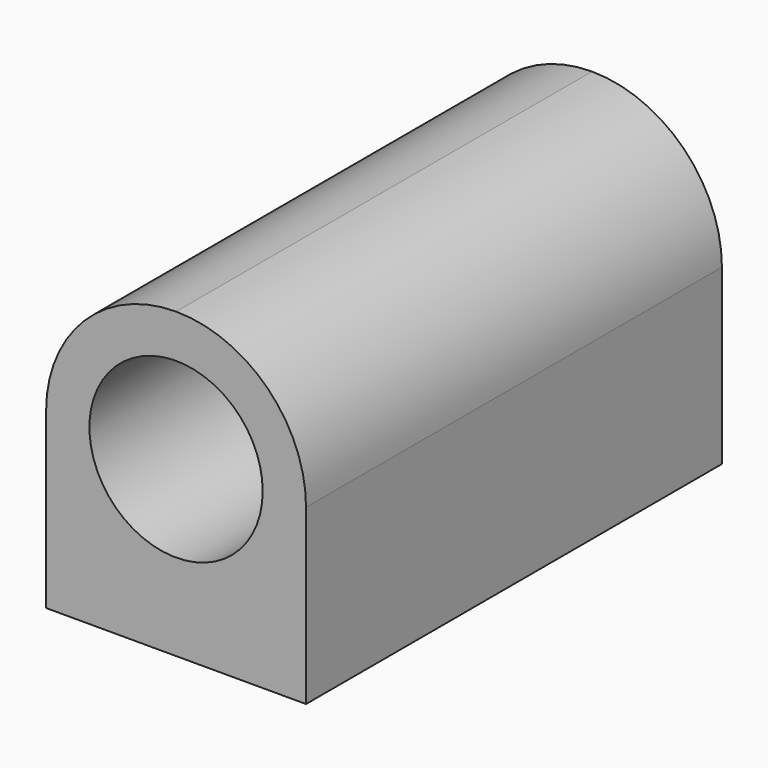
from build123d import *

# Parameters (mm, degrees)
F0_R     = 0.5
F1_DEPTH = 1.5
F2_R     = 0.065
F3_DEPTH = 0.5


with BuildPart() as f1:
    # F0 (on Front) → F1 (new body, symmetric)
    with BuildSketch(Plane.XZ):
        with BuildLine():
            Line((-0.75, 0), (0, 0))
            Line((0, 0), (0.75, 0))
            Line((0.75, 0), (0.75, 1))
            ThreePointArc((0.75, 1), (0.53033, 1.53033), (0, 1.75))
            ThreePointArc((0, 1.75), (-0.53033, 1.53033), (-0.75, 1))
            Line((-0.75, 1), (-0.75, 0))
        make_face()
        with Locations((0, 1)):
            Circle(F0_R, mode=Mode.SUBTRACT)
    extrude(amount=F1_DEPTH, both=True)

    # F2 (on face) → F3 (cut)
    with BuildSketch(Plane(origin=(0, 0, 0), x_dir=(1, 0, 0), z_dir=(0, 0, -1))):
        with Locations((-0.5, 1.25)):
            Circle(F2_R)
        with Locations((0.5, 1.25)):
            Circle(F2_R)
        with Locations((0.5, -1.25)):
            Circle(F2_R)
        with Locations((-0.5, -1.25)):
            Circle(F2_R)
    extrude(amount=-F3_DEPTH, mode=Mode.SUBTRACT)


solid = f1.part
